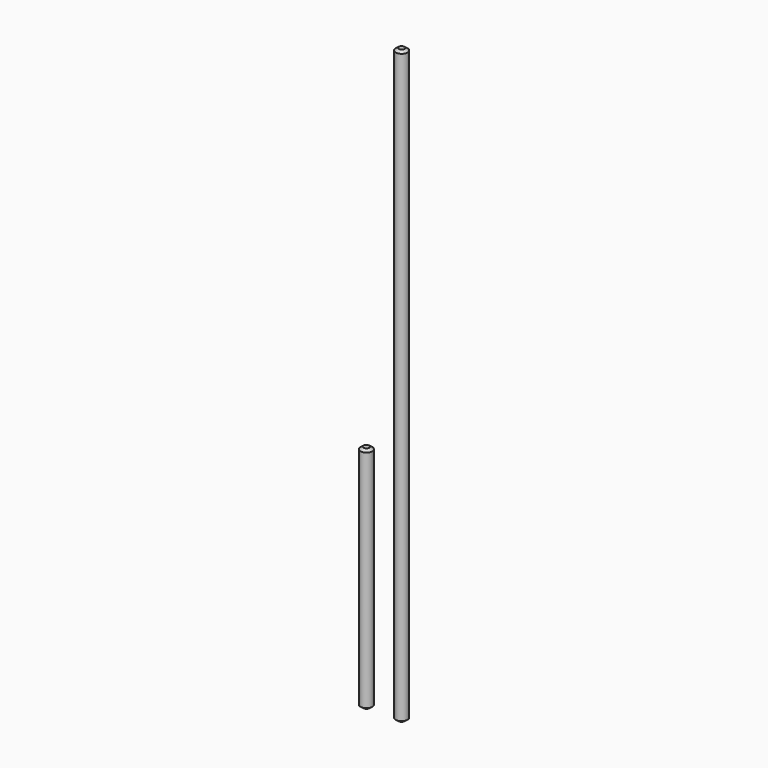
from build123d import *

# Parameters (mm, degrees)
F0_R     = 4
F1_DEPTH = 400
F2_SIZE2 = 2
F2_SIZE  = 1.5
F3_DEPTH = 155
F4_SIZE2 = 2
F4_SIZE  = 1.5


with BuildPart() as f1:
    # F0 (on Top) → F1 (new body)
    with BuildSketch(Plane.XY):
        Circle(F0_R)
    extrude(amount=F1_DEPTH)

    # F2
    f2_edges = [f1.edges().sort_by_distance(p)[0] for p in [
        (-4, 0, 0),
        (-4, 0, 400),
    ]]
    chamfer(f2_edges, length=F2_SIZE, length2=F2_SIZE2)


with BuildPart() as f3:
    # F0 (on Top) → F3 (new body)
    with BuildSketch(Plane.XY):
        with Locations((-23.789063, 0)):
            Circle(F0_R)
    extrude(amount=F3_DEPTH)

    # F4
    f4_edges = [f3.edges().sort_by_distance(p)[0] for p in [
        (-27.789063, 0, 155),
        (-27.789063, 0, 0),
    ]]
    chamfer(f4_edges, length=F4_SIZE, length2=F4_SIZE2)


solid = Compound([f1.part, f3.part])
